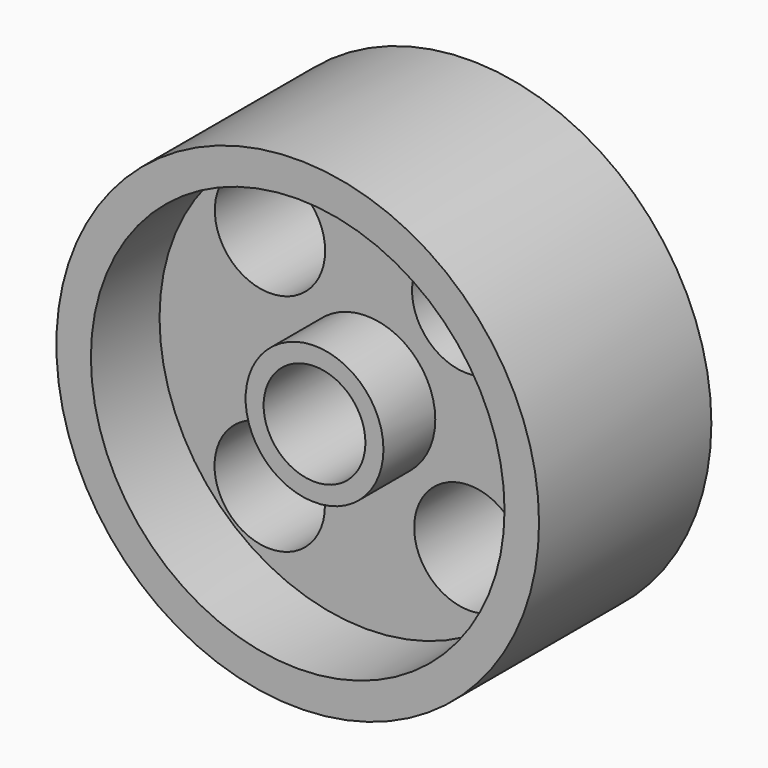
from build123d import *

# Parameters (mm, degrees)
F0_R     = 35.0012
F0_R_2   = 29.9974
F1_DEPTH = 31.242
F0_R_3   = 8.001
F0_R_4   = 9.9949
F2_DEPTH = 18.796
F0_R_5   = 7.381132
F3_DEPTH = 28.194


with BuildPart() as f1:
    # F0 (on Front) → F1 (new body)
    with BuildSketch(Plane.XZ):
        Circle(F0_R)
        Circle(F0_R_2, mode=Mode.SUBTRACT)
    extrude(amount=F1_DEPTH)

    # F0 (on Front) → F2 (join)
    with BuildSketch(Plane.XZ):
        Circle(F0_R_2)
        with Locations((-14.0208, -16.306801)):
            Circle(F0_R_3, mode=Mode.SUBTRACT)
        with Locations((14.935198, -14.7828)):
            Circle(F0_R_3, mode=Mode.SUBTRACT)
        with Locations((-13.978204, 16.333792)):
            Circle(F0_R_3, mode=Mode.SUBTRACT)
        Circle(F0_R_4, mode=Mode.SUBTRACT)
        with Locations((14.630399, 15.3924)):
            Circle(F0_R_3, mode=Mode.SUBTRACT)
    extrude(amount=F2_DEPTH)

    # F0 (on Front) → F3 (join)
    with BuildSketch(Plane.XZ):
        Circle(F0_R_4)
        Circle(F0_R_5, mode=Mode.SUBTRACT)
    extrude(amount=F3_DEPTH)


solid = f1.part
